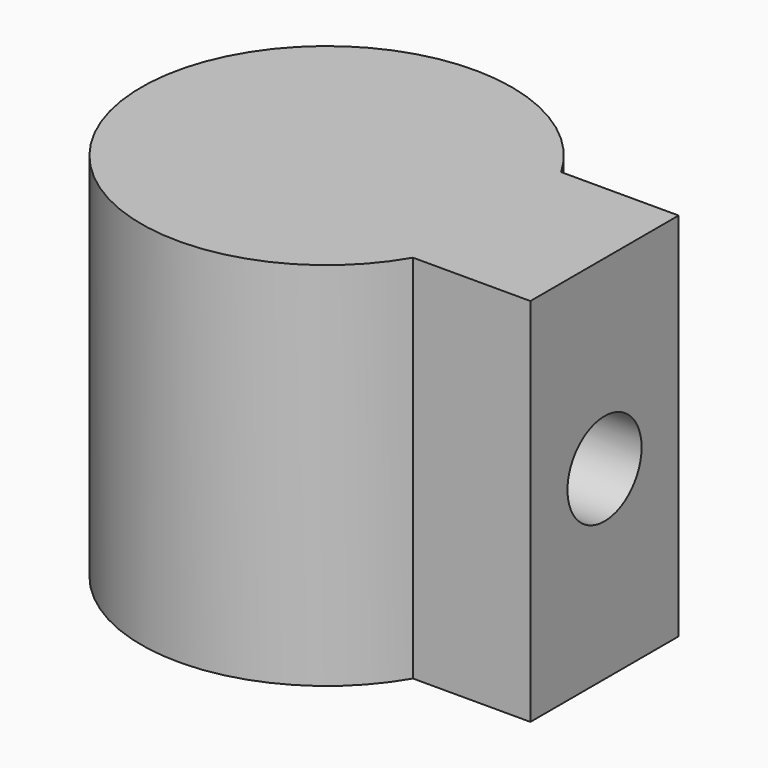
from build123d import *

# Parameters (mm, degrees)
F1_DEPTH = 25.4
F2_R     = 3.175
F3_DEPTH = 6.35


with BuildPart() as f1:
    # F0 (on Top) → F1 (new body)
    with BuildSketch(Plane.XY):
        with BuildLine():
            Line((19.05, 6.35), (10.998523, 6.35))
            ThreePointArc((10.998523, 6.35), (-12.7, 0), (10.998523, -6.35))
            Line((10.998523, -6.35), (19.05, -6.35))
            Line((19.05, -6.35), (19.05, 6.35))
        make_face()
    extrude(amount=F1_DEPTH)

    # F2 (on face) → F3 (cut)
    with BuildSketch(Plane.YZ.offset(19.05)):
        with Locations((0, 12.7)):
            Circle(F2_R)
    extrude(amount=-F3_DEPTH, mode=Mode.SUBTRACT)


solid = f1.part
